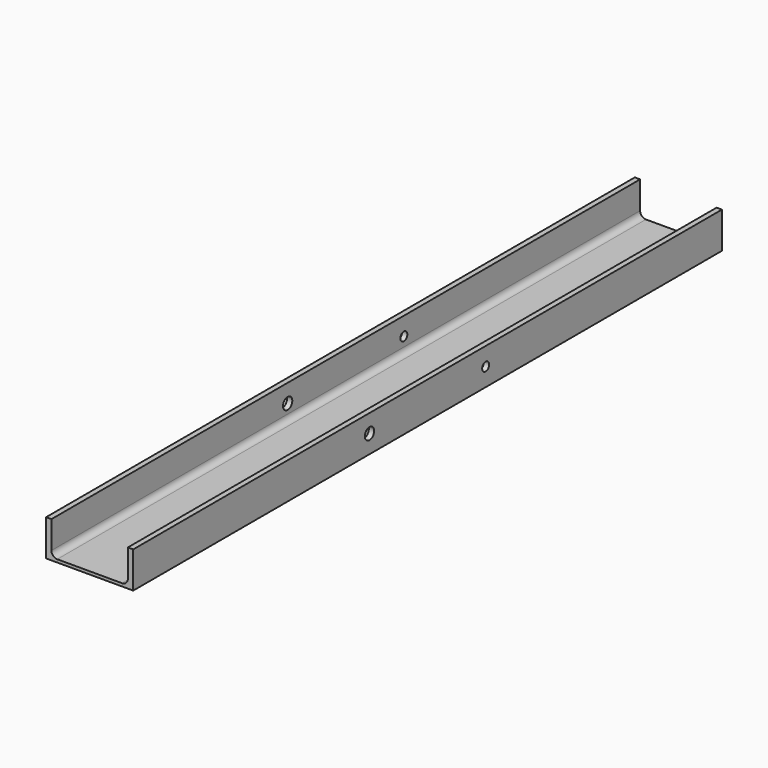
from build123d import *

# Parameters (mm, degrees)
F1_DEPTH = 1520
F2_R     = 9
F2_R_2   = 12
F3_DEPTH = 180


with BuildPart() as f1:
    # F0 (on Front) → F1 (new body)
    with BuildSketch(Plane.XZ):
        with BuildLine():
            Line((-180, 0), (0, 0))
            Line((0, 0), (0, 75))
            Line((0, 75), (-11, 75))
            Line((-11, 75), (-11, 18))
            ThreePointArc((-11, 18), (-14.514719, 9.514719), (-23, 6))
            Line((-23, 6), (-157, 6))
            ThreePointArc((-157, 6), (-165.485281, 9.514719), (-169, 18))
            Line((-169, 18), (-169, 75))
            Line((-169, 75), (-180, 75))
            Line((-180, 75), (-180, 0))
        make_face()
    extrude(amount=-F1_DEPTH)

    # F2 (on face) → F3 (cut)
    with BuildSketch(Plane.YZ):
        with Locations((910, 37.5)):
            Circle(F2_R)
        with Locations((610, 37.5)):
            Circle(F2_R_2)
    extrude(amount=-F3_DEPTH, mode=Mode.SUBTRACT)


solid = f1.part
